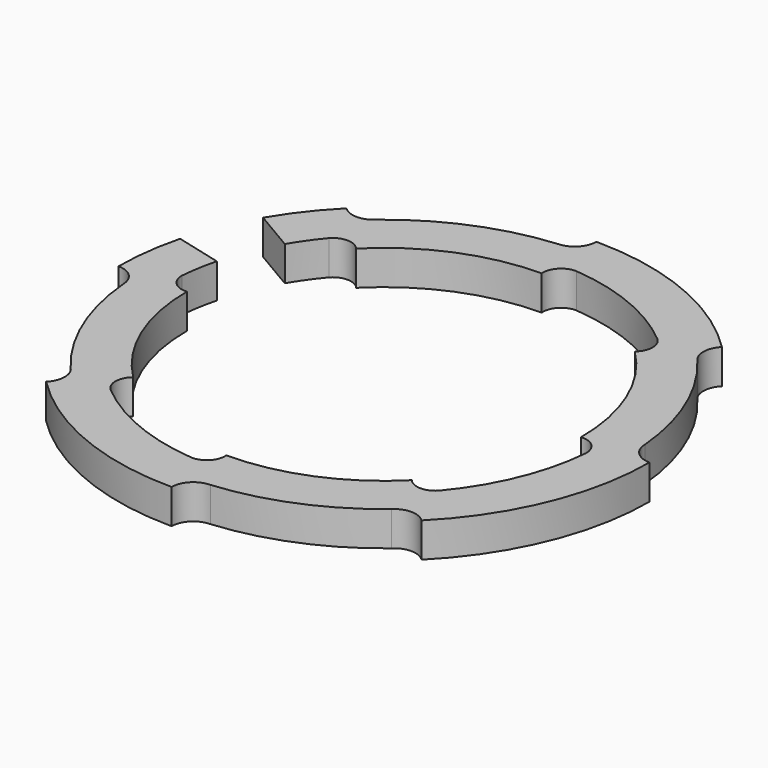
from build123d import *

# Parameters (mm, degrees)
F1_DEPTH = 2.5
F3_DEPTH = 2.501


with BuildPart() as f1:
    # F0 (on Top) → F1 (new body)
    with BuildSketch(Plane.XY):
        with BuildLine():
            ThreePointArc((-11.3773406915, 13.5589866432), (-12.4804717144, 13.1173744075), (-13.5764501988, 13.5764501988))
            ThreePointArc((-13.5764501988, 13.5764501988), (-17.7384870242, 7.3475219014), (-19.2, 0))
            ThreePointArc((-19.2, 0), (-18.1004105765, -0.4503582132), (-17.6326461562, -1.5426566466))
            ThreePointArc((-17.6326461562, -1.5426566466), (-16.3526677254, -6.7734967529), (-13.5589866432, -11.3773406915))
            ThreePointArc((-13.5589866432, -11.3773406915), (-13.1173744075, -12.4804717144), (-13.5764501988, -13.5764501988))
            ThreePointArc((-13.5764501988, -13.5764501988), (-7.3475219014, -17.7384870242), (0, -19.2))
            ThreePointArc((0, -19.2), (0.4503582132, -18.1004105765), (1.5426566466, -17.6326461562))
            ThreePointArc((1.5426566466, -17.6326461562), (6.7734967529, -16.3526677254), (11.3773406915, -13.5589866432))
            ThreePointArc((11.3773406915, -13.5589866432), (12.4804717144, -13.1173744075), (13.5764501988, -13.5764501988))
            ThreePointArc((13.5764501988, -13.5764501988), (17.7384870242, -7.3475219014), (19.2, 0))
            ThreePointArc((19.2, 0), (18.1005373282, 0.4504869942), (17.6326461562, 1.5426566466))
            ThreePointArc((17.6326461562, 1.5426566466), (16.3526677254, 6.7734967529), (13.5589866432, 11.3773406915))
            ThreePointArc((13.5589866432, 11.3773406915), (13.1173744075, 12.4804717144), (13.5764501988, 13.5764501988))
            ThreePointArc((13.5764501988, 13.5764501988), (7.3475219014, 17.7384870242), (0, 19.2))
            ThreePointArc((0, 19.2), (-0.4504869942, 18.1005373282), (-1.5426566466, 17.6326461562))
            ThreePointArc((-1.5426566466, 17.6326461562), (-6.7734967529, 16.3526677254), (-11.3773406915, 13.5589866432))
        make_face()
        with BuildLine():
            ThreePointArc((15.6900664949, -1.3727029483), (14.5511026371, -6.0272640598), (12.0651999791, -10.1239048526))
            ThreePointArc((12.0651999791, -10.1239048526), (11.0599850614, -10.5489862891), (10.0762716319, -10.0762716319))
            ThreePointArc((10.0762716319, -10.0762716319), (5.4532389112, -13.1652833383), (0, -14.25))
            ThreePointArc((0, -14.25), (-0.3613316509, -15.2798492672), (-1.3727029483, -15.6900664949))
            ThreePointArc((-1.3727029483, -15.6900664949), (-6.0272640598, -14.5511026371), (-10.1239048526, -12.0651999791))
            ThreePointArc((-10.1239048526, -12.0651999791), (-10.5489862891, -11.0599850614), (-10.0762716319, -10.0762716319))
            ThreePointArc((-10.0762716319, -10.0762716319), (-13.1652833383, -5.4532389112), (-14.25, 0))
            ThreePointArc((-14.25, 0), (-15.2798501764, 0.3613306971), (-15.6900664949, 1.3727029483))
            ThreePointArc((-15.6900664949, 1.3727029483), (-14.5511026371, 6.0272640598), (-12.0651999791, 10.1239048526))
            ThreePointArc((-12.0651999791, 10.1239048526), (-11.0599850614, 10.5489862891), (-10.0762716319, 10.0762716319))
            ThreePointArc((-10.0762716319, 10.0762716319), (-5.4532389112, 13.1652833383), (0, 14.25))
            ThreePointArc((0, 14.25), (0.3613306971, 15.2798501764), (1.3727029483, 15.6900664949))
            ThreePointArc((1.3727029483, 15.6900664949), (6.0272640598, 14.5511026371), (10.1239048526, 12.0651999791))
            ThreePointArc((10.1239048526, 12.0651999791), (10.5489862891, 11.0599850614), (10.0762716319, 10.0762716319))
            ThreePointArc((10.0762716319, 10.0762716319), (13.1652833383, 5.4532389112), (14.25, 0))
            ThreePointArc((14.25, 0), (15.2798501764, -0.3613306971), (15.6900664949, -1.3727029483))
        make_face(mode=Mode.SUBTRACT)
    extrude(amount=F1_DEPTH)

    # F2 (on Top) → F3 (cut, through all)
    with BuildSketch(Plane.XY):
        with BuildLine():
            Line((-18.5884346953, 4.8072960778), (-15.248325336, 3.9434850639))
            ThreePointArc((-15.248325336, 3.9434850639), (-14.5511026371, 6.0272640598), (-13.570659277, 7.9937292166))
            Line((-13.570659277, 7.9937292166), (-16.5432798805, 9.7447365688))
            ThreePointArc((-16.5432798805, 9.7447365688), (-17.7384870242, 7.3475219014), (-18.5884346953, 4.8072960778))
        make_face()
    extrude(amount=F3_DEPTH, mode=Mode.SUBTRACT)


solid = f1.part
